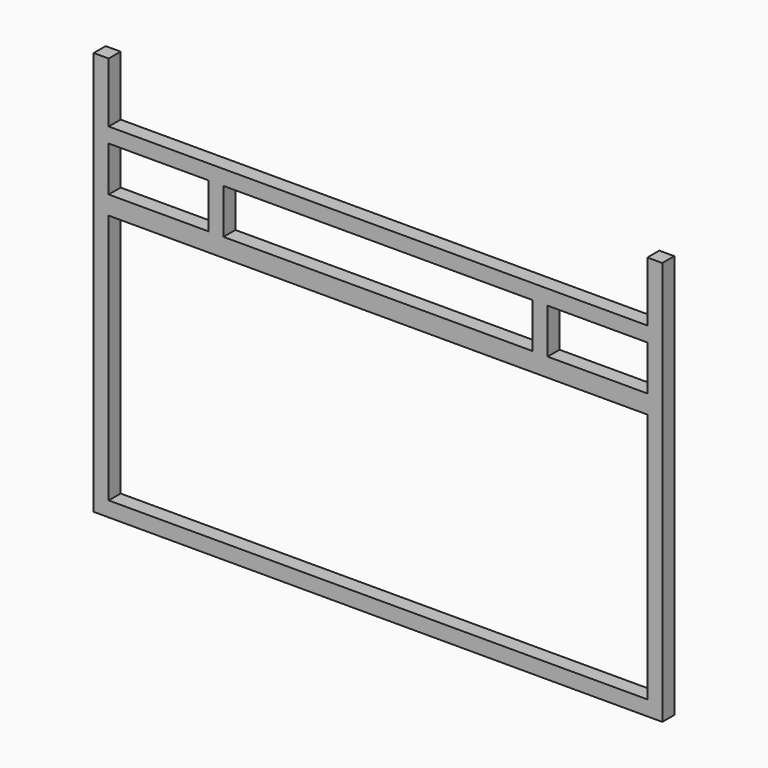
from build123d import *

# Parameters (mm, degrees)
F0_W     = 38.1
F0_H     = 114.3
F1_DEPTH = 38.1


with BuildPart() as f1:
    # F0 (on Front) → F1 (new body)
    with BuildSketch(Plane.XZ):
        Polygon((-457.014564, 38.1), (-457.014564, 0), (990.785436, 0), (990.785436, 38.1), (952.685436, 38.1), (-418.914564, 38.1), align=None)
        Polygon((952.685436, 38.1), (990.785436, 38.1), (990.785436, 723.9), (952.685436, 723.9), (952.685436, 676.546395), align=None)
        Polygon((-418.914564, 876.3), (-418.914564, 838.2), (-164.914564, 838.2), (-126.814564, 838.2), (660.585436, 838.2), (698.685436, 838.2), (952.685436, 838.2), (952.685436, 876.3), align=None)
        Polygon((-457.014564, 1028.7), (-457.014564, 723.9), (-418.914564, 723.9), (-418.914564, 838.2), (-418.914564, 876.3), (-418.914564, 1028.7), align=None)
        Polygon((-457.014564, 723.9), (-457.014564, 38.1), (-418.914564, 38.1), (-418.914564, 676.546395), (-418.914564, 723.9), align=None)
        Polygon((952.685436, 723.9), (990.785436, 723.9), (990.785436, 1028.7), (952.685436, 1028.7), (952.685436, 876.3), (952.685436, 838.2), align=None)
        with Locations((-145.864564, 781.05)):
            Rectangle(F0_W, F0_H)
        Polygon((-418.914564, 723.9), (-418.914564, 676.546395), (952.685436, 676.546395), (952.685436, 723.9), (698.685436, 723.9), (660.585436, 723.9), (-126.814564, 723.9), (-164.914564, 723.9), align=None)
        with Locations((679.635436, 781.05)):
            Rectangle(F0_W, F0_H)
    extrude(amount=F1_DEPTH)


solid = f1.part
